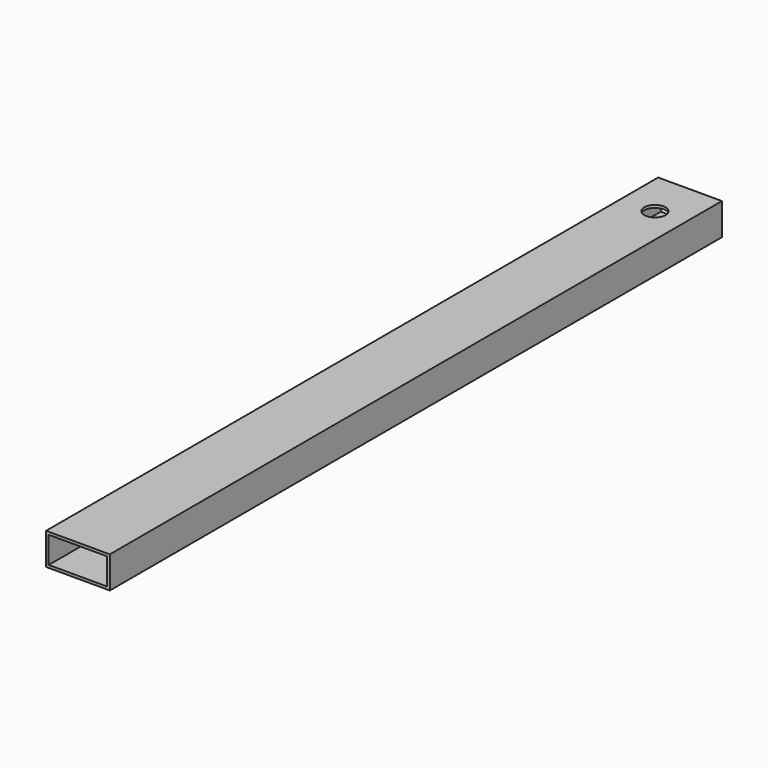
from build123d import *

# Parameters (mm, degrees)
F0_W     = 38.1
F0_H     = 19.05
F0_W_2   = 34.925
F0_H_2   = 15.875
F1_DEPTH = 457.2
F3_D     = 12.7


with BuildPart() as f1:
    # F0 (on Front) → F1 (new body)
    with BuildSketch(Plane.XZ):
        with Locations((19.05, 9.525)):
            Rectangle(F0_W, F0_H)
        with Locations((19.05, 9.525)):
            Rectangle(F0_W_2, F0_H_2, mode=Mode.SUBTRACT)
    extrude(amount=F1_DEPTH)

    # F3 (through all)
    with Locations(Plane.XY.offset(19.05)):
        with Locations((20.119106, -27.543508)):
            Hole(F3_D / 2)


solid = f1.part
